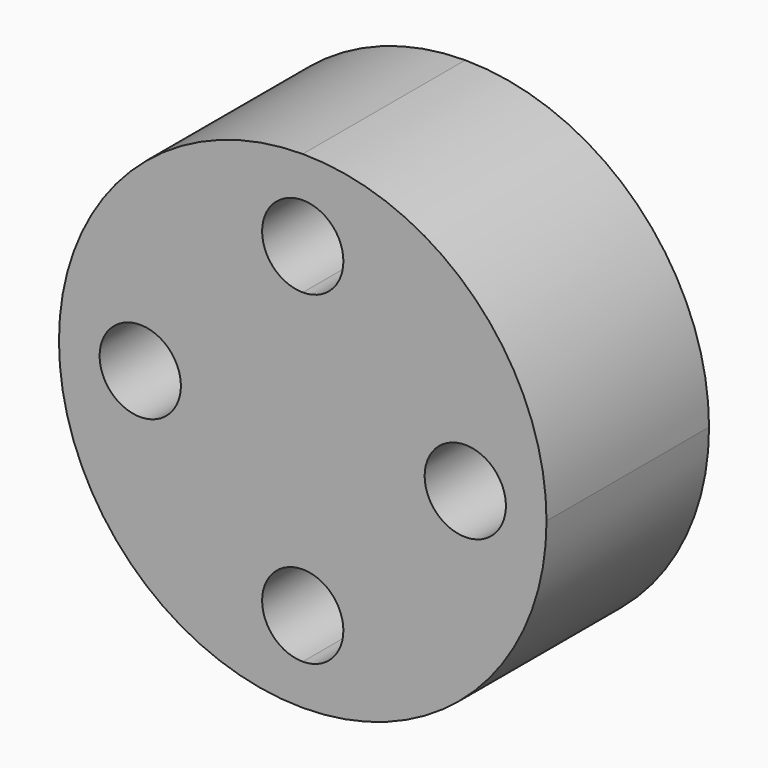
from build123d import *

# Parameters (mm, degrees)
F1_DEPTH = 25


with BuildPart() as f1:
    # F0 (on Front) → F1 (new body)
    with BuildSketch(Plane.XZ):
        with BuildLine():
            ThreePointArc((0, -30), (21.213203, -21.213203), (30, 0))
            Line((30, 0), (25, 0))
            ThreePointArc((25, 0), (20, -5), (15, 0))
            Line((15, 0), (0, 0))
            Line((0, 0), (0, -15))
            ThreePointArc((0, -15), (3.535534, -16.464466), (5, -20))
            ThreePointArc((5, -20), (3.535534, -23.535534), (0, -25))
            Line((0, -25), (0, -30))
        make_face()
        with BuildLine():
            ThreePointArc((-30, 0), (-21.213203, -21.213203), (0, -30))
            Line((0, -30), (0, -25))
            ThreePointArc((0, -25), (-5, -20), (0, -15))
            Line((0, -15), (0, 0))
            Line((0, 0), (-15, 0))
            ThreePointArc((-15, 0), (-20, -5), (-25, 0))
            Line((-25, 0), (-30, 0))
        make_face()
        with BuildLine():
            Line((0, 25), (0, 30))
            ThreePointArc((0, 30), (-21.213203, 21.213203), (-30, 0))
            Line((-30, 0), (-25, 0))
            ThreePointArc((-25, 0), (-20, 5), (-15, 0))
            Line((-15, 0), (0, 0))
            Line((0, 0), (0, 15))
            ThreePointArc((0, 15), (-5, 20), (0, 25))
        make_face()
        with BuildLine():
            Line((25, 0), (30, 0))
            ThreePointArc((30, 0), (21.213203, 21.213203), (0, 30))
            Line((0, 30), (0, 25))
            ThreePointArc((0, 25), (3.535534, 23.535534), (5, 20))
            ThreePointArc((5, 20), (3.535534, 16.464466), (0, 15))
            Line((0, 15), (0, 0))
            Line((0, 0), (15, 0))
            ThreePointArc((15, 0), (20, 5), (25, 0))
        make_face()
    extrude(amount=F1_DEPTH)


solid = f1.part
